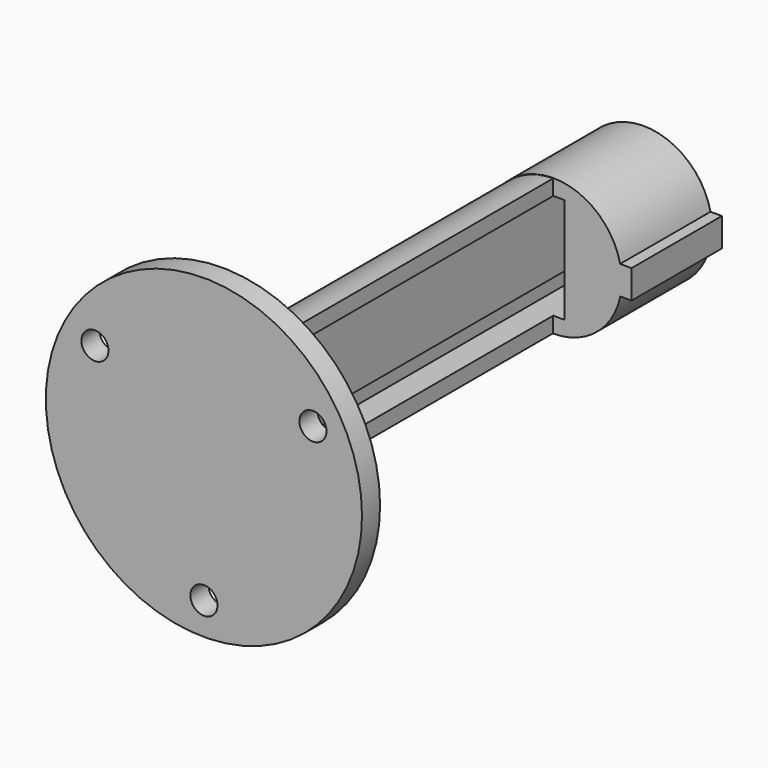
from build123d import *

# Parameters (mm, degrees)
PAD_DEPTH          = 15
POCKET_DEPTH       = 13
PAD001_DEPTH       = 55
POCKET001_DEPTH    = 7.601
SKETCH004_R        = 21
PAD002_DEPTH       = 3
SKETCH005_R        = 1.8
POCKET002_DEPTH    = 261.224272
POLARPATTERN_COUNT = 3


with BuildPart() as part:
    # Sketch → Pad (new body)
    with BuildSketch(Plane.XZ):
        with BuildLine():
            ThreePointArc((8.889624, 1.945402), (-9.099882, -0.046426), (8.90901, -1.854598))
            Line((10.40901, -1.854598), (8.90901, -1.854598))
            Line((10.40901, 1.945402), (10.40901, -1.854598))
            Line((8.889624, 1.945402), (10.40901, 1.945402))
        make_face()
    extrude(amount=PAD_DEPTH)

    # Sketch001 (on Face6 of Pad) → Pocket (cut)
    with BuildSketch(Plane.XZ.offset(15)):
        Polygon((-1.5, 7), (1.5, 7), (1.5, -7), (-3.348355, -7), (-3.348355, -3.808815), (-1.5, -3.808815), align=None)
    extrude(amount=-POCKET_DEPTH, mode=Mode.SUBTRACT)

    # Sketch002 (on Face5 of Pocket) → Pad001 (join)
    with BuildSketch(Plane.XZ.offset(15)):
        with BuildLine():
            Line((0, 7), (-1.5, 7))
            Line((-1.5, 7), (-1.5, -3.808815))
            Line((-1.5, -3.808815), (-3.348355, -3.808815))
            Line((-3.348355, -3.808815), (-3.348355, -7))
            Line((-3.348355, -7), (0, -7))
            Line((0, -7), (0, -9.054887))
            ThreePointArc((0, 9.054887), (-9.054887, 0), (0, -9.054887))
            Line((0, 7), (0, 9.054887))
        make_face()
    extrude(amount=PAD001_DEPTH)

    # Sketch003 (on Face19 of Pad001) → Pocket001 (cut, through all)
    with BuildSketch(Plane(origin=(-1.5, 0, 0), x_dir=(0, 0, 1), z_dir=(1, 0, 0))):
        with BuildLine():
            Line((-2.546247, 70), (-2.546247, 65.982418))
            ThreePointArc((-2.546247, 65.982418), (0.071035, 63.295116), (2.534594, 66.124008))
            Line((2.534594, 70), (2.534594, 66.124008))
            Line((-2.546247, 70), (2.534594, 70))
        make_face()
    extrude(amount=-POCKET001_DEPTH, mode=Mode.SUBTRACT)

    # Sketch004 (on Face14 of Pocket001) → Pad002 (join)
    with BuildSketch(Plane.XZ.offset(70)):
        Circle(SKETCH004_R)
    extrude(amount=PAD002_DEPTH)

    # Sketch005 (on Face3 of Pad002) → Pocket002 (cut, through all)
    with BuildSketch(Plane.XZ.offset(73)):
        with Locations((0, -16.72)):
            Circle(SKETCH005_R)
    pocket002 = extrude(amount=-POCKET002_DEPTH, mode=Mode.SUBTRACT)

    # PolarPattern: Pocket002 ×3 about axis
    polarpattern_axis = Axis((0, -73, 0), (0, -1, 0))
    for i in range(1, POLARPATTERN_COUNT):
        add(pocket002.rotate(polarpattern_axis, i * 360 / POLARPATTERN_COUNT), mode=Mode.SUBTRACT)


solid = part.part
